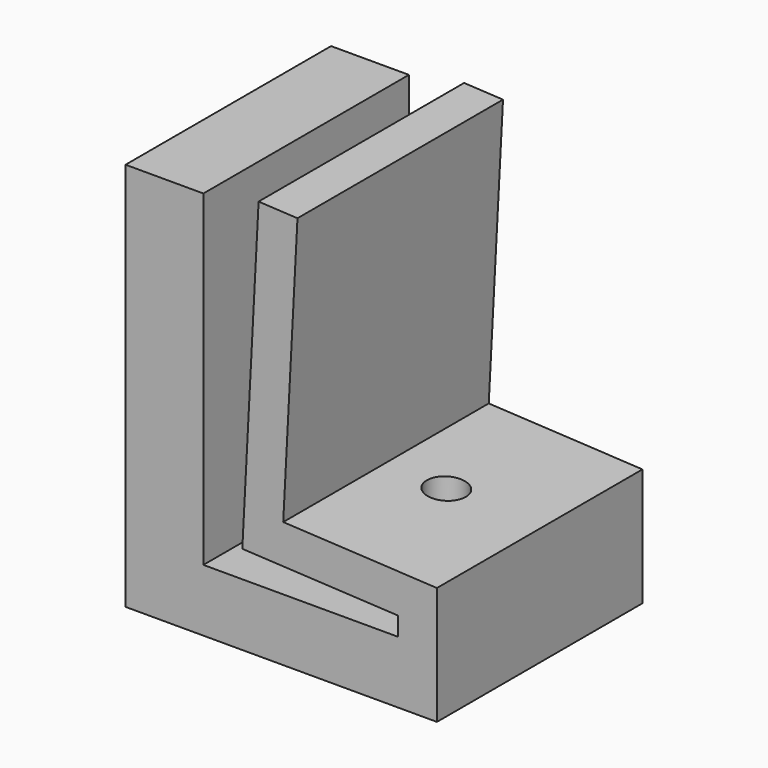
from build123d import *

# Parameters (mm, degrees)
F1_DEPTH = 10.4775
F2_R     = 1.5875
F3_DEPTH = 2.54
F4_R     = 0.79375
F5_DEPTH = 16.318384


with BuildPart() as f1:
    # F0 (on Front) → F1 (new body)
    with BuildSketch(Plane.XZ):
        Polygon((3.175, 15.875), (0, 15.875), (0, 0), (12.7, 0), (12.7, 4.808481), (6.430908, 5.13703), (7.012491, 16.234301), (5.427167, 16.317384), (4.7625, 3.634789), (11.1125, 3.302), (11.1125, 2.54), (3.175, 2.54), align=None)
    extrude(amount=F1_DEPTH)

    # F2 (on face) → F3 (cut)
    with BuildSketch(Plane(origin=(0, 0, 0), x_dir=(1, 0, 0), z_dir=(0, 0, -1))):
        with Locations((8.89, 5.23875)):
            Circle(F2_R)
    extrude(amount=-F3_DEPTH, mode=Mode.SUBTRACT)

    # F4 (on face) → F5 (cut, through all)
    with BuildSketch(Plane(origin=(0, 0, 0), x_dir=(1, 0, 0), z_dir=(0, 0, -1))):
        with Locations((8.89, 5.23875)):
            Circle(F4_R)
    extrude(amount=-F5_DEPTH, mode=Mode.SUBTRACT)


solid = f1.part
